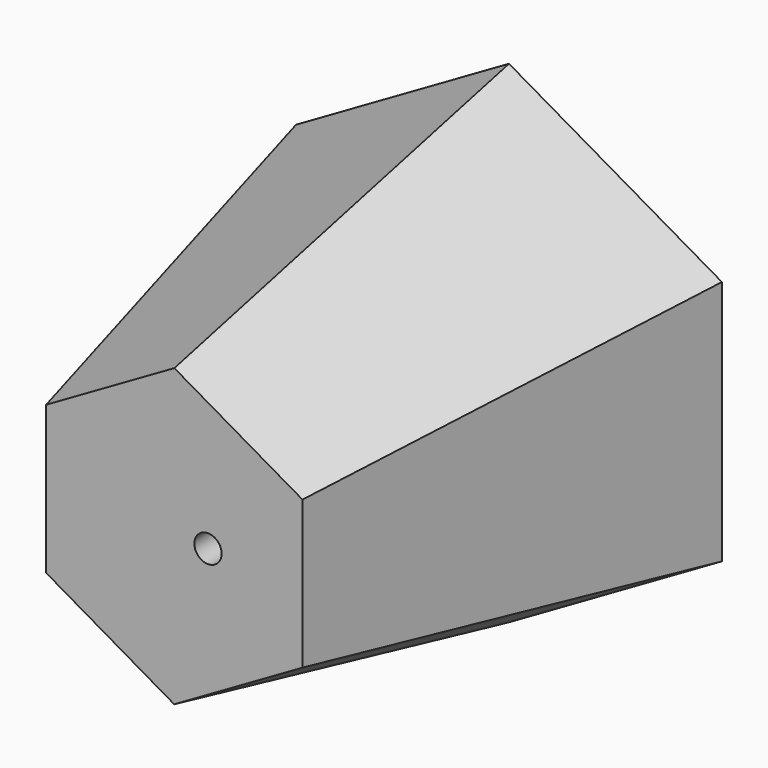
from build123d import *

# Parameters (mm, degrees)
F10_R     = 1.5052256161
F11_DEPTH = 4.572


with BuildPart() as f3:
    # F0 (on Front) → F3 section 0
    with BuildSketch(Plane.XZ):
        Polygon((-23.5281828791, 13.5840027188), (-23.5281828791, -13.5840027188), (0, -27.1680054376), (23.5281828791, -13.5840027188), (23.5281828791, 13.5840027188), (0, 27.1680054376), align=None)
    # F2 (on offset) → F3 section 1
    with BuildSketch(Plane.XZ.offset(46.228)):
        Polygon((14.1652144193, 8.1686001212), (0.0083919913, 16.3517355978), (-14.156822428, 8.1831354766), (-14.1652144193, -8.1686001212), (-0.0083919913, -16.3517355978), (14.156822428, -8.1831354766), align=None)
    loft()

    # F7 (on offset) → F8 section 0
    with BuildSketch(Plane.XZ.offset(42.926)):
        Polygon((0.2034265982, 13.7726851485), (-11.8257819178, 7.0625151761), (-12.0292085161, -6.7101699724), (-0.2034265982, -13.7726851485), (11.8257819178, -7.0625151761), (12.0292085161, 6.7101699724), align=None)
    # F5 (on offset) → F8 section 1
    with BuildSketch(Plane(origin=(0, 1.778, 0), x_dir=(-1, 0, 0), z_dir=(0, 1, 0))):
        Polygon((0.0969416377, 21.7713832631), (-18.8061001625, 10.9696455524), (-18.9030418002, -10.8017377106), (-0.0969416377, -21.7713832631), (18.8061001625, -10.9696455524), (18.9030418002, 10.8017377106), align=None)
    loft(mode=Mode.SUBTRACT)

    # F10 (on offset) → F11 (cut)
    with BuildSketch(Plane.XZ.offset(46.228)):
        with Locations((3.7272993941, 0)):
            Circle(F10_R)
    extrude(amount=-F11_DEPTH, mode=Mode.SUBTRACT)


solid = f3.part
